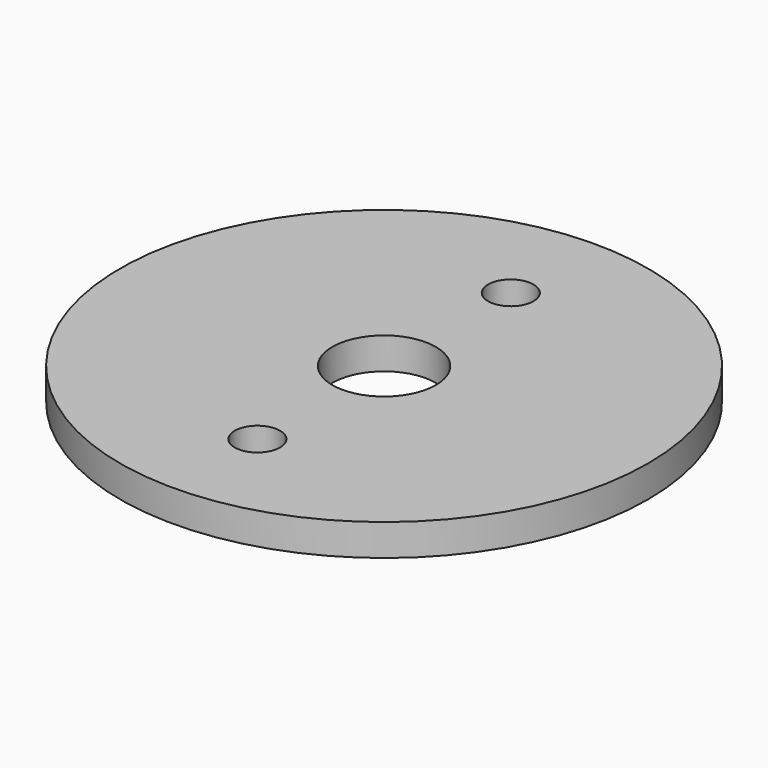
from build123d import *

# Parameters (mm, degrees)
F0_R     = 25
F0_R_2   = 2.15
F1_DEPTH = 3
F2_R     = 4.9
F3_DEPTH = 3.001


with BuildPart() as f1:
    # F0 (on Top) → F1 (new body)
    with BuildSketch(Plane.XY):
        Circle(F0_R)
        with Locations((0, -15)):
            Circle(F0_R_2, mode=Mode.SUBTRACT)
        with Locations((0, 15)):
            Circle(F0_R_2, mode=Mode.SUBTRACT)
    extrude(amount=F1_DEPTH)

    # F2 (on face) → F3 (cut, through all)
    with BuildSketch(Plane.XY.offset(3)):
        Circle(F2_R)
    extrude(amount=-F3_DEPTH, mode=Mode.SUBTRACT)


solid = f1.part
